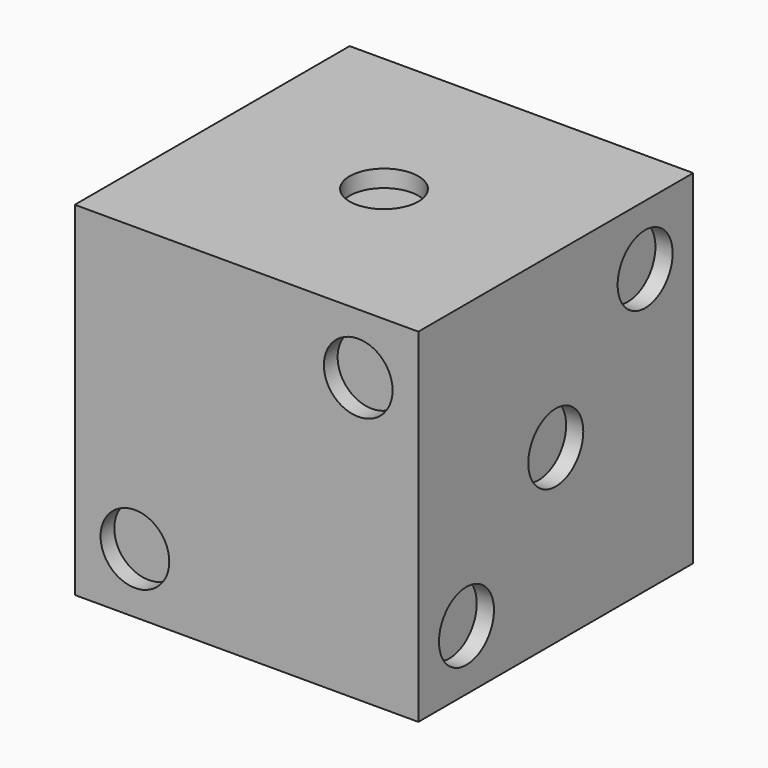
from build123d import *

# Parameters (mm, degrees)
F0_W      = 127
F0_H      = 127
F1_DEPTH  = 127
F2_R      = 12.7
F3_DEPTH  = 6.35
F4_R      = 12.7
F5_DEPTH  = 6.35
F6_R      = 12.7
F7_DEPTH  = 6.35
F8_R      = 12.7
F9_DEPTH  = 6.35
F10_R     = 12.7
F11_DEPTH = 6.35
F12_R     = 12.7
F13_DEPTH = 6.35


with BuildPart() as f1:
    # F0 (on Top) → F1 (new body)
    with BuildSketch(Plane.XY):
        with Locations((63.5, 63.5)):
            Rectangle(F0_W, F0_H)
    extrude(amount=F1_DEPTH)

    # F2 (on face) → F3 (cut)
    with BuildSketch(Plane.XY.offset(127)):
        with Locations((63.5, 63.5)):
            Circle(F2_R)
    extrude(amount=-F3_DEPTH, mode=Mode.SUBTRACT)

    # F4 (on face) → F5 (cut)
    with BuildSketch(Plane.XZ):
        with Locations((22.225, 22.225)):
            Circle(F4_R)
        with Locations((104.775, 104.775)):
            Circle(F4_R)
    extrude(amount=-F5_DEPTH, mode=Mode.SUBTRACT)

    # F6 (on face) → F7 (cut)
    with BuildSketch(Plane.YZ.offset(127)):
        with Locations((22.225, 22.225)):
            Circle(F6_R)
        with Locations((63.5, 63.5)):
            Circle(F6_R)
        with Locations((104.775, 104.775)):
            Circle(F6_R)
    extrude(amount=-F7_DEPTH, mode=Mode.SUBTRACT)

    # F8 (on face) → F9 (cut)
    with BuildSketch(Plane(origin=(0, 127, 0), x_dir=(-1, 0, 0), z_dir=(0, 1, 0))):
        with Locations((-63.5, 63.5)):
            Circle(F8_R)
        with Locations((-22.225, 104.775)):
            Circle(F8_R)
        with Locations((-104.775, 104.775)):
            Circle(F8_R)
        with Locations((-104.775, 22.225)):
            Circle(F8_R)
        with Locations((-22.225, 22.225)):
            Circle(F8_R)
    extrude(amount=-F9_DEPTH, mode=Mode.SUBTRACT)

    # F10 (on face) → F11 (cut)
    with BuildSketch(Plane(origin=(0, 0, 0), x_dir=(0, -1, 0), z_dir=(-1, 0, 0))):
        with Locations((-104.775, 104.775)):
            Circle(F10_R)
        with Locations((-22.225, 104.775)):
            Circle(F10_R)
        with Locations((-22.225, 22.225)):
            Circle(F10_R)
        with Locations((-104.775, 22.225)):
            Circle(F10_R)
    extrude(amount=-F11_DEPTH, mode=Mode.SUBTRACT)

    # F12 (on face) → F13 (cut)
    with BuildSketch(Plane(origin=(0, 0, 0), x_dir=(1, 0, 0), z_dir=(0, 0, -1))):
        with Locations((104.775, -22.225)):
            Circle(F12_R)
        with Locations((104.775, -63.5)):
            Circle(F12_R)
        with Locations((104.775, -104.775)):
            Circle(F12_R)
        with Locations((22.225, -104.775)):
            Circle(F12_R)
        with Locations((22.225, -63.5)):
            Circle(F12_R)
        with Locations((22.225, -22.225)):
            Circle(F12_R)
    extrude(amount=-F13_DEPTH, mode=Mode.SUBTRACT)


solid = f1.part
